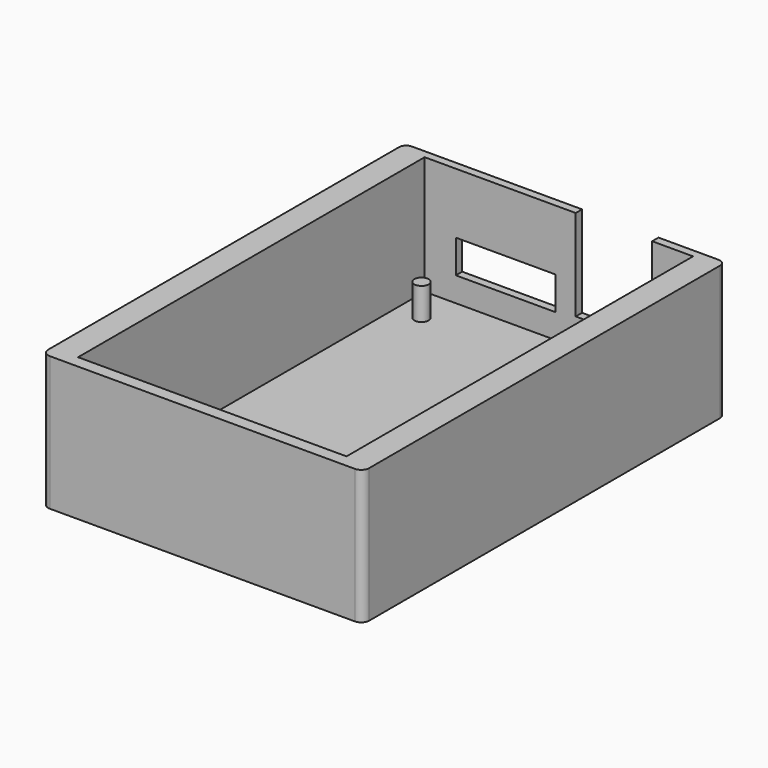
from build123d import *

# Parameters (mm, degrees)
SKETCH_W          = 32.3725
SKETCH_H          = 52.06
SKETCH_R          = 0.6
SKETCH_R_2        = 0.51
SKETCH_R_3        = 1.27
SKETCH_R_4        = 0.45
SKETCH_R_5        = 0.4
SKETCH_R_6        = 0.85
SKETCH_R_7        = 1
SKETCH_R_8        = 0.65
SKETCH_R_9        = 0.405
SKETCH_R_10       = 0.55
SKETCH_R_11       = 0.5
PAD_DEPTH         = 0.1
SKETCH002_W       = 40.3725
SKETCH002_H       = 56.06
PAD001_DEPTH      = 10.9
PAD001_DEPTH_BACK = 6
SKETCH003_W       = 33.7725
SKETCH003_H       = 14.9
POCKET_DEPTH      = 54.5
SKETCH004_R       = 0.9
PAD002_DEPTH      = 4
SKETCH005_W       = 40.3725
SKETCH005_H       = 16.9
PAD003_DEPTH      = 1
SKETCH006_W       = 12.565357
SKETCH006_H       = 4.17396
SKETCH006_W_2     = 9.608805
SKETCH006_H_2     = 11.565347
POCKET001_DEPTH   = 5
FILLET_R          = 1
FILLET001_R       = 1
FILLET002_R       = 0.9
FILLET003_R       = 0.9


with BuildPart() as part:
    # Sketch → Pad (new body)
    with BuildSketch(Plane.XY):
        with Locations((16.18625, 26.03)):
            Rectangle(SKETCH_W, SKETCH_H)
        with Locations((8.1, 2.23)):
            Circle(SKETCH_R, mode=Mode.SUBTRACT)
        with Locations((8.26, 43.82)):
            Circle(SKETCH_R_2, mode=Mode.SUBTRACT)
        with Locations((13.97, 2.54)):
            Circle(SKETCH_R_3, mode=Mode.SUBTRACT)
        with Locations((17.78, 35.56)):
            Circle(SKETCH_R_4, mode=Mode.SUBTRACT)
        with Locations((16.19, 22.23)):
            Circle(SKETCH_R_5, mode=Mode.SUBTRACT)
        with Locations((16.19, 24.77)):
            Circle(SKETCH_R_5, mode=Mode.SUBTRACT)
        with Locations((13.65, 22.23)):
            Circle(SKETCH_R_5, mode=Mode.SUBTRACT)
        with Locations((13.65, 24.77)):
            Circle(SKETCH_R_5, mode=Mode.SUBTRACT)
        with Locations((15.24, 35.56)):
            Circle(SKETCH_R_4, mode=Mode.SUBTRACT)
        with Locations((10.55, 31.43)):
            Circle(SKETCH_R_6, mode=Mode.SUBTRACT)
        with Locations((10.55, 6.03)):
            Circle(SKETCH_R_6, mode=Mode.SUBTRACT)
        with Locations((17.36, 11.6275)):
            Circle(SKETCH_R_7, mode=Mode.SUBTRACT)
        with Locations((13.65, 19.69)):
            Circle(SKETCH_R_5, mode=Mode.SUBTRACT)
        with Locations((16.19, 19.69)):
            Circle(SKETCH_R_5, mode=Mode.SUBTRACT)
        with Locations((13.34, 43.82)):
            Circle(SKETCH_R_2, mode=Mode.SUBTRACT)
        with Locations((10.79, 43.82)):
            Circle(SKETCH_R_2, mode=Mode.SUBTRACT)
        with Locations((18.41, 41.91)):
            Circle(SKETCH_R_8, mode=Mode.SUBTRACT)
        with Locations((30.1625, 2.54)):
            Circle(SKETCH_R_3, mode=Mode.SUBTRACT)
        with Locations((28.36, 11.6275)):
            Circle(SKETCH_R_7, mode=Mode.SUBTRACT)
        with Locations((29.21, 29.53)):
            Circle(SKETCH_R_9, mode=Mode.SUBTRACT)
        with Locations((29.21, 24.45)):
            Circle(SKETCH_R_9, mode=Mode.SUBTRACT)
        with Locations((29.21, 16.83)):
            Circle(SKETCH_R_9, mode=Mode.SUBTRACT)
        with Locations((25.36, 23.54)):
            Circle(SKETCH_R_10, mode=Mode.SUBTRACT)
        with Locations((25.36, 1.63)):
            Circle(SKETCH_R_11, mode=Mode.SUBTRACT)
        with Locations((25.36, 4.13)):
            Circle(SKETCH_R_11, mode=Mode.SUBTRACT)
        with Locations((25.36, 28.54)):
            Circle(SKETCH_R_10, mode=Mode.SUBTRACT)
        with Locations((22.86, 1.63)):
            Circle(SKETCH_R_11, mode=Mode.SUBTRACT)
        with Locations((22.86, 4.13)):
            Circle(SKETCH_R_11, mode=Mode.SUBTRACT)
        with Locations((20.36, 1.63)):
            Circle(SKETCH_R_11, mode=Mode.SUBTRACT)
        with Locations((20.36, 4.13)):
            Circle(SKETCH_R_11, mode=Mode.SUBTRACT)
        with Locations((20.32, 35.56)):
            Circle(SKETCH_R_4, mode=Mode.SUBTRACT)
        with Locations((20.36, 23.54)):
            Circle(SKETCH_R_10, mode=Mode.SUBTRACT)
        with Locations((20.36, 28.54)):
            Circle(SKETCH_R_10, mode=Mode.SUBTRACT)
        with Locations((23.12, 44.91)):
            Circle(SKETCH_R_8, mode=Mode.SUBTRACT)
        with Locations((23.12, 38.91)):
            Circle(SKETCH_R_8, mode=Mode.SUBTRACT)
        with Locations((29.21, 37.15)):
            Circle(SKETCH_R_9, mode=Mode.SUBTRACT)
        with Locations((30.1625, 49.53)):
            Circle(SKETCH_R_3, mode=Mode.SUBTRACT)
        with Locations((4.6, 35.23)):
            Circle(SKETCH_R, mode=Mode.SUBTRACT)
        with Locations((4.6, 2.23)):
            Circle(SKETCH_R, mode=Mode.SUBTRACT)
        with Locations((5.71, 43.82)):
            Circle(SKETCH_R_2, mode=Mode.SUBTRACT)
        with Locations((2.15, 7.33)):
            Circle(SKETCH_R_6, mode=Mode.SUBTRACT)
        with Locations((2.54, 49.53)):
            Circle(SKETCH_R_3, mode=Mode.SUBTRACT)
        with Locations((2.15, 30.13)):
            Circle(SKETCH_R_6, mode=Mode.SUBTRACT)
    extrude(amount=PAD_DEPTH)

    # Sketch002 → Pad001 (new body, two sides)
    with BuildSketch(Plane.XY.offset(0.1)) as pad001_sk:
        with Locations((16.18625, 26.03)):
            Rectangle(SKETCH002_W, SKETCH002_H)
    extrude(amount=PAD001_DEPTH)
    extrude(pad001_sk.sketch, amount=-PAD001_DEPTH_BACK)

    # Sketch003 → Pocket (cut)
    with BuildSketch(Plane(origin=(0, 54.06, 0), x_dir=(-1, 0, 0), z_dir=(0, 1, 0))):
        with Locations((-16.18625, 3.55)):
            Rectangle(SKETCH003_W, SKETCH003_H)
    extrude(amount=-POCKET_DEPTH, mode=Mode.SUBTRACT)

    # Sketch004 → Pad002 (new body)
    with BuildSketch(Plane.XY.offset(-3.9)):
        with Locations((2.533148, 49.528465)):
            Circle(SKETCH004_R)
        with Locations((30.161428, 49.528465)):
            Circle(SKETCH004_R)
        with Locations((30.161428, 2.570097)):
            Circle(SKETCH004_R)
        with Locations((13.958012, 2.570097)):
            Circle(SKETCH004_R)
    extrude(amount=PAD002_DEPTH)

    # Sketch005 → Pad003 (new body)
    with BuildSketch(Plane(origin=(0, 54.06, 0), x_dir=(-1, 0, 0), z_dir=(0, 1, 0))):
        with Locations((-16.18625, 2.55)):
            Rectangle(SKETCH005_W, SKETCH005_H)
    extrude(amount=PAD003_DEPTH)

    # Sketch006 → Pocket001 (cut)
    with BuildSketch(Plane(origin=(0, 55.06, 0), x_dir=(-1, 0, 0), z_dir=(0, 1, 0))):
        with Locations((-9.507967, 1.278049)):
            Rectangle(SKETCH006_W, SKETCH006_H)
        with Locations((-23.116813, 5.321573)):
            Rectangle(SKETCH006_W_2, SKETCH006_H_2)
    extrude(amount=-POCKET001_DEPTH, mode=Mode.SUBTRACT)

    # Fillet
    fillet_edges = [part.edges().sort_by_distance(p)[0] for p in [
        (36.3725, -2, 2.55),
    ]]
    fillet(fillet_edges, radius=FILLET_R)

    # Fillet001
    fillet001_edges = [part.edges().sort_by_distance(p)[0] for p in [
        (-4, -2, 2.55),
    ]]
    fillet(fillet001_edges, radius=FILLET001_R)

    # Fillet002
    fillet002_edges = [part.edges().sort_by_distance(p)[0] for p in [
        (36.3725, 55.06, 2.55),
    ]]
    fillet(fillet002_edges, radius=FILLET002_R)

    # Fillet003
    fillet003_edges = [part.edges().sort_by_distance(p)[0] for p in [
        (-4, 55.06, 2.55),
    ]]
    fillet(fillet003_edges, radius=FILLET003_R)


solid = part.part
